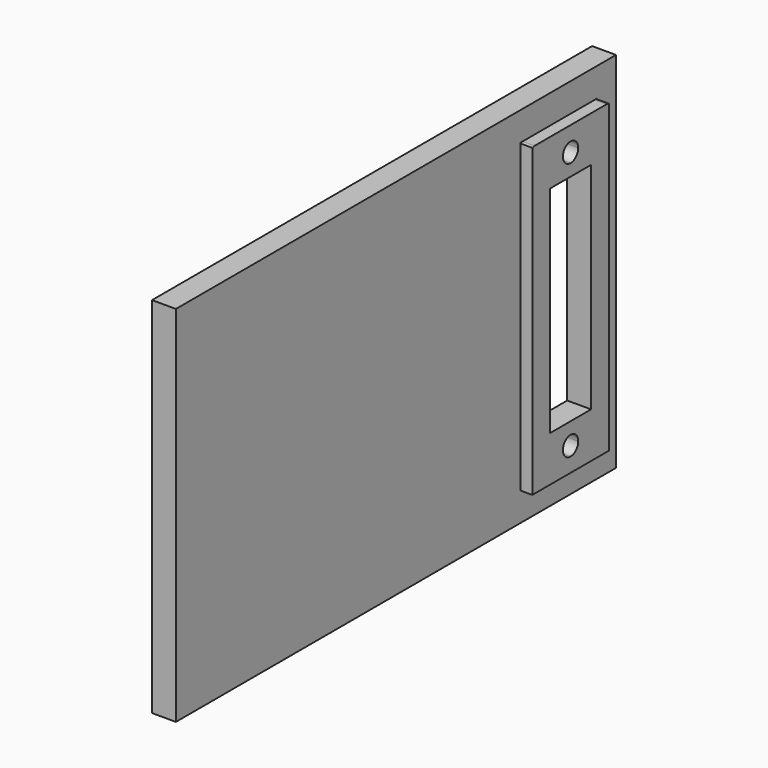
from build123d import *

# Parameters (mm, degrees)
F0_W     = 2.3138754722
F0_H     = 22.5
F1_DEPTH = 2.5
F2_DEPTH = 1.25


with BuildPart() as f1:
    # F0 (on Right) → F1 (new body)
    with BuildSketch(Plane.YZ):
        with BuildLine():
            Line((5, 11.25), (5, 15.9374109685))
            ThreePointArc((5, 15.9374109685), (4.858596069, 15.9691612093), (4.716990566, 16))
            Line((4.716990566, 16), (0, 16))
            Line((0, 16), (0, 14.5))
            ThreePointArc((0, 14.5), (0.7071067812, 14.2071067812), (1, 13.5))
            Line((1, 13.5), (2.6861245278, 13.5))
            Line((2.6861245278, 13.5), (2.6861245278, 11.25))
            Line((2.6861245278, 11.25), (5, 11.25))
        make_face()
        with BuildLine():
            ThreePointArc((-4.716990566, 16), (-4.858596069, 15.9691612093), (-5, 15.9374109685))
            Line((-5, 15.9374109685), (-5, 11.25))
            Line((-5, 11.25), (-2.6861245278, 11.25))
            Line((-2.6861245278, 11.25), (-2.6861245278, 13.5))
            Line((-2.6861245278, 13.5), (-1, 13.5))
            ThreePointArc((-1, 13.5), (-0.7071067812, 14.2071067812), (0, 14.5))
            Line((0, 14.5), (0, 16))
            Line((0, 16), (-4.716990566, 16))
        make_face()
        with BuildLine():
            Line((0, 11.25), (2.6861245278, 11.25))
            Line((2.6861245278, 11.25), (2.6861245278, 13.5))
            Line((2.6861245278, 13.5), (1, 13.5))
            ThreePointArc((1, 13.5), (0.7071067812, 12.7928932188), (0, 12.5))
            Line((0, 12.5), (0, 11.25))
        make_face()
        with BuildLine():
            Line((-2.6861245278, 11.25), (0, 11.25))
            Line((0, 11.25), (0, 12.5))
            ThreePointArc((0, 12.5), (-0.7071067812, 12.7928932188), (-1, 13.5))
            Line((-1, 13.5), (-2.6861245278, 13.5))
            Line((-2.6861245278, 13.5), (-2.6861245278, 11.25))
        make_face()
        with BuildLine():
            Line((-2.6861245278, -13.5), (-1, -13.5))
            ThreePointArc((-1, -13.5), (-0.7071067812, -12.7928932188), (0, -12.5))
            Line((0, -12.5), (0, -11.25))
            Line((0, -11.25), (-2.6861245278, -11.25))
            Line((-2.6861245278, -11.25), (-2.6861245278, -13.5))
        make_face()
        with BuildLine():
            ThreePointArc((0, -12.5), (0.7071067812, -12.7928932188), (1, -13.5))
            Line((1, -13.5), (2.6861245278, -13.5))
            Line((2.6861245278, -13.5), (2.6861245278, -11.25))
            Line((2.6861245278, -11.25), (0, -11.25))
            Line((0, -11.25), (0, -12.5))
        make_face()
        with BuildLine():
            Line((0, -14.5), (0, -16))
            Line((0, -16), (5, -16))
            Line((5, -16), (5, -11.25))
            Line((5, -11.25), (2.6861245278, -11.25))
            Line((2.6861245278, -11.25), (2.6861245278, -13.5))
            Line((2.6861245278, -13.5), (1, -13.5))
            ThreePointArc((1, -13.5), (0.7071067812, -14.2071067812), (0, -14.5))
        make_face()
        with BuildLine():
            Line((-5, -16), (0, -16))
            Line((0, -16), (0, -14.5))
            ThreePointArc((0, -14.5), (-0.7071067812, -14.2071067812), (-1, -13.5))
            Line((-1, -13.5), (-2.6861245278, -13.5))
            Line((-2.6861245278, -13.5), (-2.6861245278, -11.25))
            Line((-2.6861245278, -11.25), (-5, -11.25))
            Line((-5, -11.25), (-5, -16))
        make_face()
        with Locations((-3.8430622639, 0)):
            Rectangle(F0_W, F0_H)
        with Locations((3.8430622639, 0)):
            Rectangle(F0_W, F0_H)
    extrude(amount=F1_DEPTH)

    # F0 (on Right) → F2 (join, symmetric)
    with BuildSketch(Plane.YZ):
        with BuildLine():
            ThreePointArc((-18.3643676722, -19), (-21.4447476344, 0.809757624), (-7.5, 15.2132034356))
            Line((-7.5, 15.2132034356), (-7.5, 19))
            Line((-7.5, 19), (-50, 19))
            Line((-50, 19), (-50, 16))
            Line((-50, 16), (-50, -19))
            Line((-50, -19), (-18.3643676722, -19))
        make_face()
        with BuildLine():
            Line((-18.3643676722, -19), (-7.5, -19))
            Line((-7.5, -19), (-7.5, 15.2132034356))
            ThreePointArc((-7.5, 15.2132034356), (-21.4447476344, 0.809757624), (-18.3643676722, -19))
        make_face()
        with BuildLine():
            Line((-7.5, -19), (0, -19))
            Line((0, -19), (0, -16))
            Line((0, -16), (-5, -16))
            Line((-5, -16), (-5, -11.25))
            Line((-5, -11.25), (-5, 11.25))
            Line((-5, 11.25), (-5, 15.9374109685))
            ThreePointArc((-5, 15.9374109685), (-6.2604807433, 15.6114872432), (-7.5, 15.2132034356))
            Line((-7.5, 15.2132034356), (-7.5, -19))
        make_face()
        with BuildLine():
            ThreePointArc((5, 15.9374109685), (6.2604807433, 15.6114872432), (7.5, 15.2132034356))
            Line((7.5, 15.2132034356), (7.5, 19))
            Line((7.5, 19), (-7.5, 19))
            Line((-7.5, 19), (-7.5, 15.2132034356))
            ThreePointArc((-7.5, 15.2132034356), (-6.2604807433, 15.6114872432), (-5, 15.9374109685))
            Line((-5, 15.9374109685), (-5, 16))
            Line((-5, 16), (-4.716990566, 16))
            ThreePointArc((-4.716990566, 16), (0, 16.5), (4.716990566, 16))
            Line((4.716990566, 16), (5, 16))
            Line((5, 16), (5, 15.9374109685))
        make_face()
        with BuildLine():
            ThreePointArc((5, 15.9374109685), (6.2604807433, 15.6114872432), (7.5, 15.2132034356))
            Line((7.5, 15.2132034356), (7.5, 19))
            Line((7.5, 19), (-7.5, 19))
            Line((-7.5, 19), (-7.5, 15.2132034356))
            ThreePointArc((-7.5, 15.2132034356), (-6.2604807433, 15.6114872432), (-5, 15.9374109685))
            Line((-5, 15.9374109685), (-5, 16))
            Line((-5, 16), (-4.716990566, 16))
            ThreePointArc((-4.716990566, 16), (0, 16.5), (4.716990566, 16))
            Line((4.716990566, 16), (5, 16))
            Line((5, 16), (5, 15.9374109685))
        make_face()
        with BuildLine():
            Line((0, -19), (7.5, -19))
            Line((7.5, -19), (7.5, 15.2132034356))
            ThreePointArc((7.5, 15.2132034356), (6.2604807433, 15.6114872432), (5, 15.9374109685))
            Line((5, 15.9374109685), (5, 11.25))
            Line((5, 11.25), (5, -11.25))
            Line((5, -11.25), (5, -16))
            Line((5, -16), (0, -16))
            Line((0, -16), (0, -19))
        make_face()
        with BuildLine():
            Line((0, 16), (4.716990566, 16))
            ThreePointArc((4.716990566, 16), (0, 16.5), (-4.716990566, 16))
            Line((-4.716990566, 16), (0, 16))
        make_face()
    extrude(amount=F2_DEPTH, both=True)


solid = f1.part
